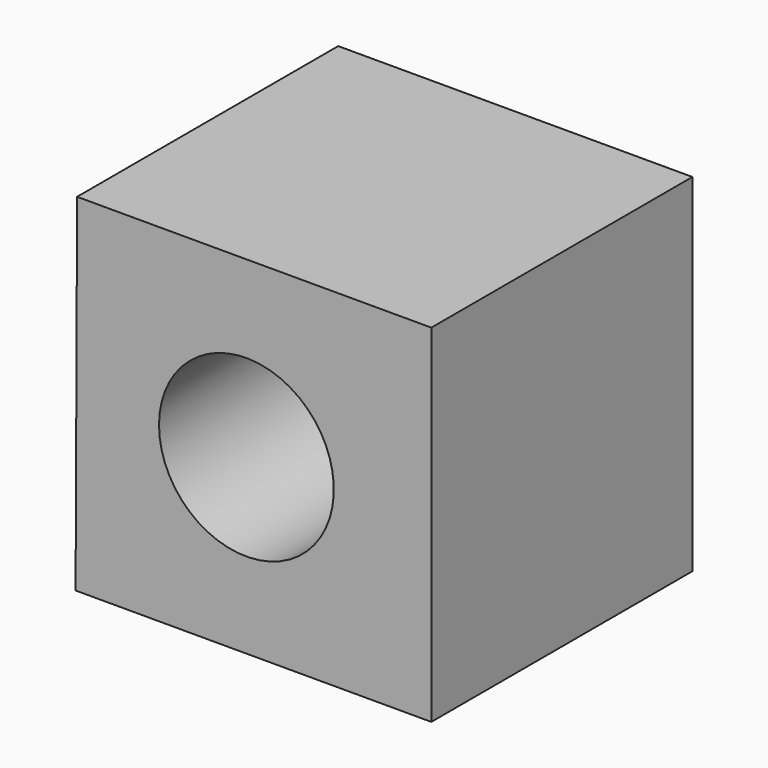
from build123d import *

# Parameters (mm, degrees)
F2_DEPTH = 142.2567795962
F4_D     = 76.2


with BuildPart() as f2:
    # F1 (on face) → F2 (new body)
    with BuildSketch(Plane.XZ):
        Polygon((80.6021243334, 75.9551972151), (-73.8069862127, 75.9551972151), (-74.4586139917, -75.3483995795), (80.6021243334, -75.3483995795), align=None)
    extrude(amount=F2_DEPTH)

    # F4 (through all)
    with Locations(Plane.XZ.offset(142.2567795962)):
        with Locations((0, 0)):
            Hole(F4_D / 2)


solid = f2.part
